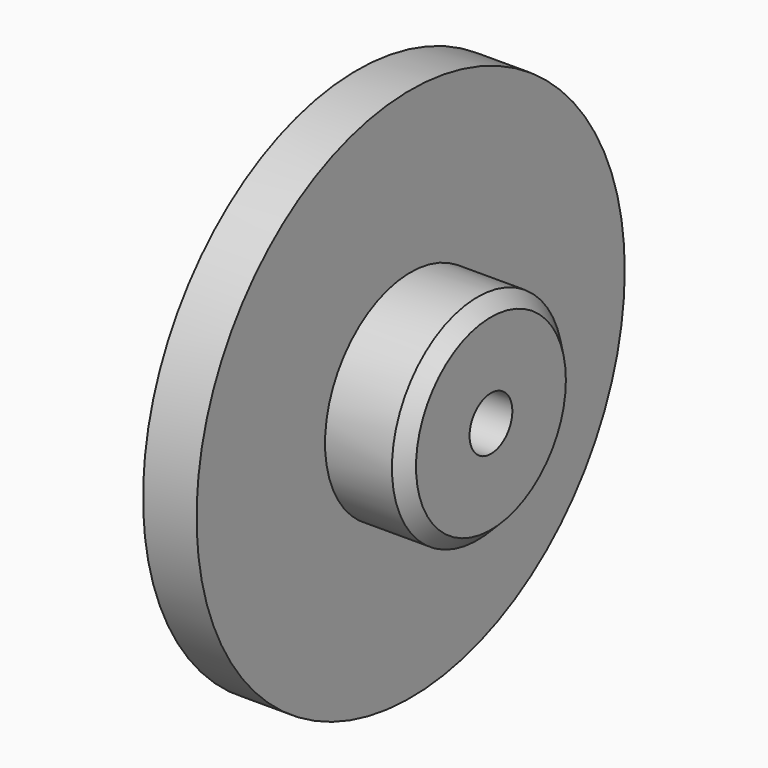
from build123d import *


with BuildPart() as f1:
    # F0 (on Top) → F1 (revolve)
    with BuildSketch(Plane.XY):
        Polygon((0, 10), (0, 1), (2, 1), (2, 4), (2, 10), align=None)
        Polygon((2, 4), (2, 1), (5, 1), (5, 3.5), (4.5, 4), align=None)
    revolve(axis=Axis((5.453455, 0, 0), (1, 0, 0)))


solid = f1.part
